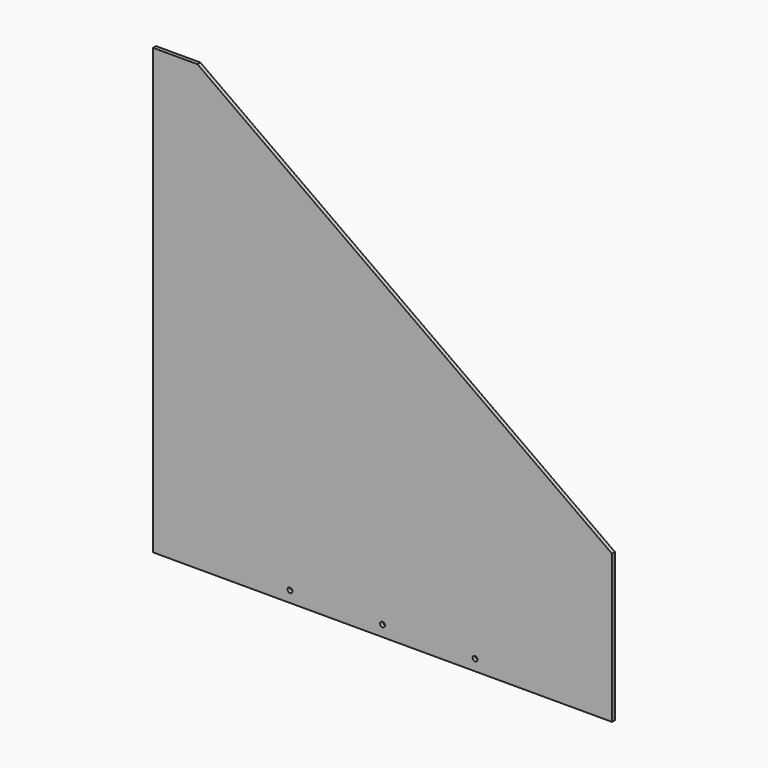
from build123d import *

# Parameters (mm, degrees)
F1_DEPTH = 5
F3_D     = 6.6


with BuildPart() as f1:
    # F0 (on Front) → F1 (new body)
    with BuildSketch(Plane.XZ):
        Polygon((-250, 300), (-310, 300), (-310, -300), (310, -300), (310, -100), align=None)
    extrude(amount=F1_DEPTH)

    # F3 (through all)
    with Locations(Plane.XZ.offset(5)):
        with Locations((-125, -285), (0, -285), (125, -285)):
            Hole(F3_D / 2)


solid = f1.part
